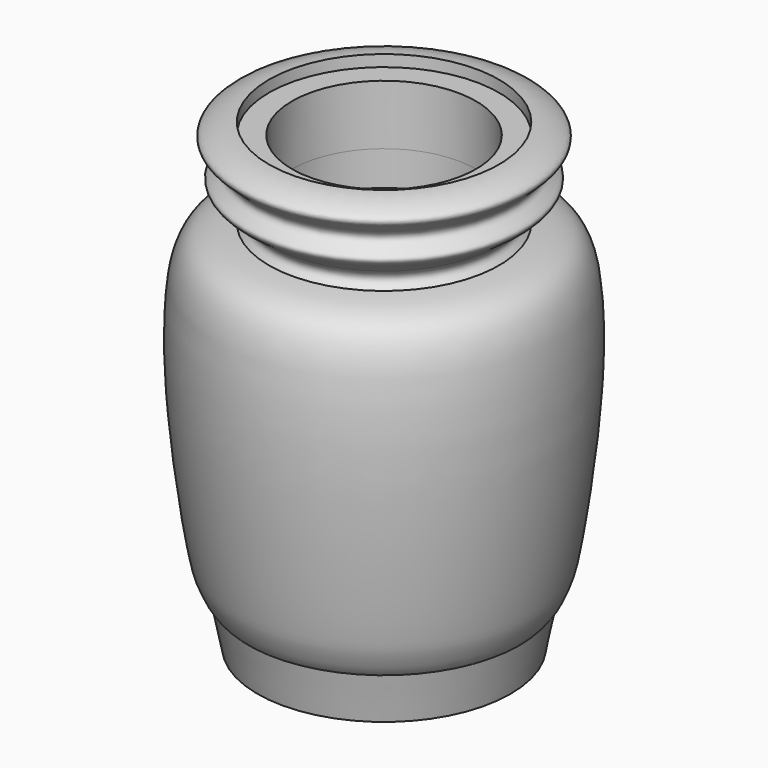
from build123d import *


with BuildPart() as f1:
    # F0 (on Front) → F1 (revolve)
    with BuildSketch(Plane.XZ):
        with BuildLine():
            Line((-63.5, 12.7), (-50.8, 12.7))
            Line((-50.8, 12.7), (-50.8, 25.4))
            add(Edge.make_bspline(
                [(-50.8, 196.7292263527), (-55.4893262235, 196.2039625073), (-65.8545906197, 195.2600382897), (-82.0716172237, 185.3475962145), (-85.641164119, 162.1853411346), (-83.9697627929, 103.8795101599), (-74.5619746661, 46.4580197926), (-69.7616856244, 27.6024186187), (-57.2313578049, 26.1272115119), (-50.8, 25.4)],
                knots=[0, 0, 0, 0, 0.1069763712, 0.2200221229, 0.3466449315, 0.5617326258, 0.7753448222, 0.8856365704, 1, 1, 1, 1], degree=3))
            Line((-50.8, 196.7292263527), (-50.8, 215.7792263527))
            Line((-50.8, 215.7792263527), (-63.5, 215.7792263527))
            add(Edge.make_bspline(
                [(-63.5, 206.1272263527), (-61.9506277144, 207.528501749), (-59.2502878449, 210.0735983825), (-61.2584836781, 213.7578129768), (-63.5, 215.7792263527)],
                knots=[0, 0, 0, 0, 0.4714935523, 1, 1, 1, 1], degree=3))
            add(Edge.make_bspline(
                [(-63.5, 206.1272263527), (-71.4575969978, 205.063067953), (-89.5377256718, 203.0171096587), (-96.2050962488, 165.8234545976), (-93.7919861007, 107.3007174993), (-84.5384389717, 44.7397990425), (-81.0886634133, 35.8235857126), (-77.7536841536, 28.1368566047), (-74.900061506, 25.303710252)],
                knots=[0, 0, 0, 0, 0.1456235773, 0.3172765114, 0.5641615023, 0.8027610497, 0.8960181934, 1, 1, 1, 1], degree=3))
            Line((-74.900061506, 25.303710252), (-69.85, 0))
            Line((-69.85, 0), (-63.5, 0))
            Line((-63.5, 0), (-63.5, 12.7))
        make_face()
    revolve(axis=Axis((0, 0, 107.7804267406), (0, 0, -1)))

    # F2 (on face) → F3 (revolve)
    with BuildSketch(Plane.XZ):
        with BuildLine():
            Line((-50.8, 215.7792263527), (-50.7800243795, 215.7792263527))
            Line((-50.7800243795, 215.7792263527), (-50.7800243795, 248.7992263527))
            Line((-50.7800243795, 248.7992263527), (-63.4800243795, 248.7992263527))
            Line((-63.4800243795, 248.7992263527), (-63.4800243795, 255.1492263527))
            add(Edge.make_bspline(
                [(-63.4800243795, 255.1492263527), (-69.7257965803, 255.291312933), (-86.8219924441, 249.7846553075), (-73.1824242131, 241.7648779848), (-68.0704193777, 233.6908120674), (-81.2293644571, 228.8304989971), (-70.009082171, 220.8244850251), (-67.2702439095, 219.3448771485), (-63.5, 215.7792263527)],
                knots=[0, 0, 0, 0, 0.2214985978, 0.3868262368, 0.5292313915, 0.6820681598, 0.8350095658, 1, 1, 1, 1], degree=3))
            Line((-63.5, 215.7792263527), (-50.8, 215.7792263527))
        make_face()
    revolve(axis=Axis((0, 0, 243.046797812), (0, 0, 1)))


solid = f1.part
